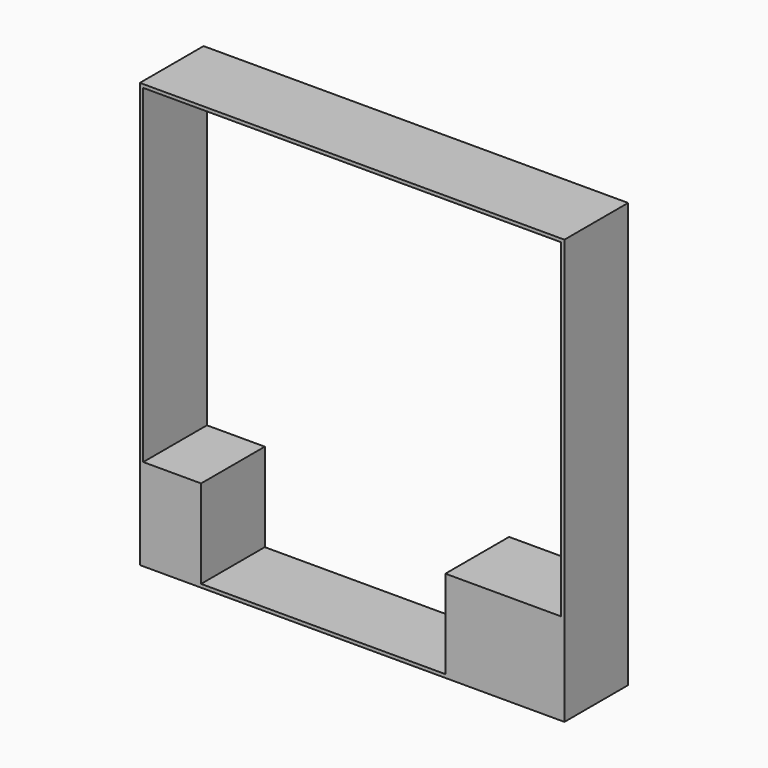
from build123d import *

# Parameters (mm, degrees)
F0_W     = 480
F0_H     = 480
F1_DEPTH = 90
F0_W_2   = 65.4
F0_H_2   = 100
F0_W_3   = 130.8
F2_DEPTH = 90


with BuildPart() as f1:
    # F0 (on Front) → F1 (new body)
    with BuildSketch(Plane.XZ):
        Rectangle(F0_W, F0_H)
        Polygon((-170.8, -236.2), (-236.2, -236.2), (-236.2, -136.2), (-236.2, 236.2), (236.2, 236.2), (236.2, -136.2), (236.2, -236.2), (105.4, -236.2), align=None, mode=Mode.SUBTRACT)
    extrude(amount=F1_DEPTH)

    # F0 (on Front) → F2 (join)
    with BuildSketch(Plane.XZ):
        with Locations((-203.5, -186.2)):
            Rectangle(F0_W_2, F0_H_2)
        with Locations((170.8, -186.2)):
            Rectangle(F0_W_3, F0_H_2)
    extrude(amount=F2_DEPTH)


solid = f1.part
